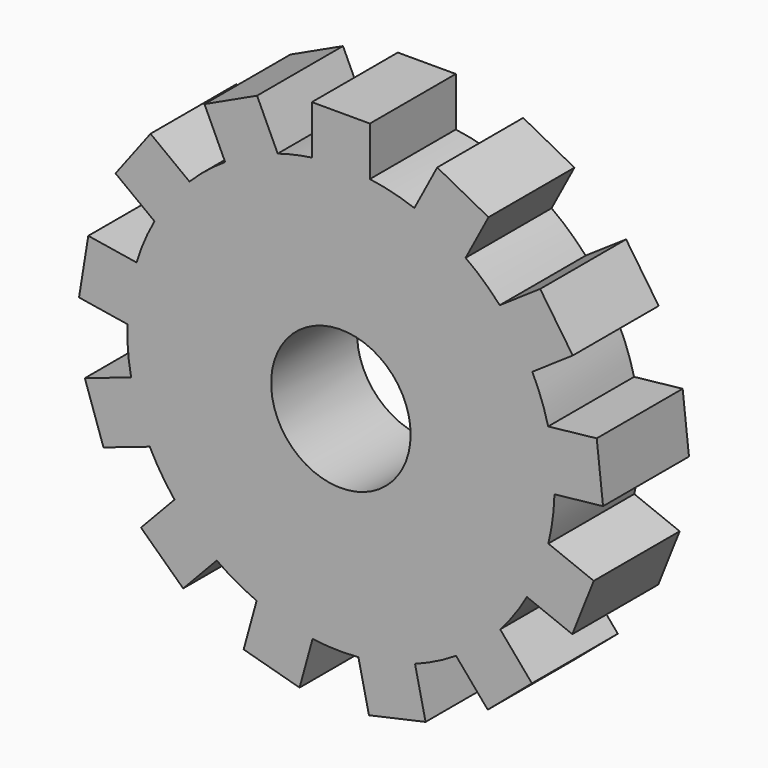
from build123d import *

# Parameters (mm, degrees)
F0_R     = 7.596908
F1_DEPTH = 11.7


with BuildPart() as f1:
    # F0 (on Front) → F1 (new body)
    with BuildSketch(Plane.XZ):
        with BuildLine():
            Line((-59.662355, -20.055879), (-57.412705, -24.880268))
            ThreePointArc((-57.412705, -24.880268), (-59.437532, -26.344963), (-61.293641, -28.018317))
            Line((-61.293641, -28.018317), (-65.540213, -24.808601))
            Line((-65.540213, -24.808601), (-69.350976, -29.850381))
            Line((-69.350976, -29.850381), (-65.104404, -33.060097))
            ThreePointArc((-65.104404, -33.060097), (-66.207849, -35.302342), (-67.06452, -37.649973))
            Line((-67.06452, -37.649973), (-72.319663, -36.801963))
            Line((-72.319663, -36.801963), (-73.32647, -43.041177))
            Line((-73.32647, -43.041177), (-68.071327, -43.889187))
            ThreePointArc((-68.071327, -43.889187), (-67.996574, -46.38712), (-67.654424, -48.862637))
            Line((-67.654424, -48.862637), (-72.69505, -50.5737))
            Line((-72.69505, -50.5737), (-70.663576, -56.558227))
            Line((-70.663576, -56.558227), (-65.62295, -54.847165))
            ThreePointArc((-65.62295, -54.847165), (-64.387397, -57.019413), (-62.926057, -59.046664))
            Line((-62.926057, -59.046664), (-66.579007, -62.918564))
            Line((-66.579007, -62.918564), (-61.98206, -67.255559))
            Line((-61.98206, -67.255559), (-58.32911, -63.383659))
            ThreePointArc((-58.32911, -63.383659), (-56.220321, -64.724652), (-53.979906, -65.83181))
            Line((-53.979906, -65.83181), (-55.394987, -70.963398))
            Line((-55.394987, -70.963398), (-49.302465, -72.643465))
            Line((-49.302465, -72.643465), (-47.887384, -67.511877))
            ThreePointArc((-47.887384, -67.511877), (-45.39616, -67.709511), (-42.898107, -67.638895))
            Line((-42.898107, -67.638895), (-41.745972, -72.83584))
            Line((-41.745972, -72.83584), (-35.575854, -71.467958))
            Line((-35.575854, -71.467958), (-36.727989, -66.271013))
            ThreePointArc((-36.727989, -66.271013), (-34.434141, -65.27929), (-32.259849, -64.047336))
            Line((-32.259849, -64.047336), (-28.808647, -68.100095))
            Line((-28.808647, -68.100095), (-23.996974, -64.002626))
            Line((-23.996974, -64.002626), (-27.448176, -59.949867))
            ThreePointArc((-27.448176, -59.949867), (-25.885576, -57.999601), (-24.541091, -55.893036))
            Line((-24.541091, -55.893036), (-19.594059, -57.858366))
            Line((-19.594059, -57.858366), (-17.260704, -51.984959))
            Line((-17.260704, -51.984959), (-22.207736, -50.019629))
            ThreePointArc((-22.207736, -50.019629), (-21.740066, -47.564728), (-21.538306, -45.073835))
            Line((-21.538306, -45.073835), (-16.246821, -44.494323))
            Line((-16.246821, -44.494323), (-16.934852, -38.211961))
            Line((-16.934852, -38.211961), (-22.226337, -38.791473))
            ThreePointArc((-22.226337, -38.791473), (-22.962442, -36.403293), (-23.950364, -34.107805))
            Line((-23.950364, -34.107805), (-19.545972, -31.118327))
            Line((-19.545972, -31.118327), (-23.095255, -25.889174))
            Line((-23.095255, -25.889174), (-27.499648, -28.878652))
            ThreePointArc((-27.499648, -28.878652), (-29.268207, -27.11302), (-31.215881, -25.547192))
            Line((-31.215881, -25.547192), (-28.723665, -20.843523))
            Line((-28.723665, -20.843523), (-34.308137, -17.884617))
            Line((-34.308137, -17.884617), (-36.800353, -22.588286))
            ThreePointArc((-36.800353, -22.588286), (-39.18975, -21.856138), (-41.643873, -21.384401))
            Line((-41.643873, -21.384401), (-41.643873, -16.061278))
            Line((-41.643873, -16.061278), (-47.963798, -16.061278))
            Line((-47.963798, -16.061278), (-47.963798, -21.384401))
            ThreePointArc((-47.963798, -21.384401), (-49.841269, -21.720575), (-51.684908, -22.209352))
            Line((-51.684908, -22.209352), (-53.934557, -17.384963))
            Line((-53.934557, -17.384963), (-59.662355, -20.055879))
        make_face()
        with Locations((-44.803835, -44.442968)):
            Circle(F0_R, mode=Mode.SUBTRACT)
    extrude(amount=F1_DEPTH)


solid = f1.part
